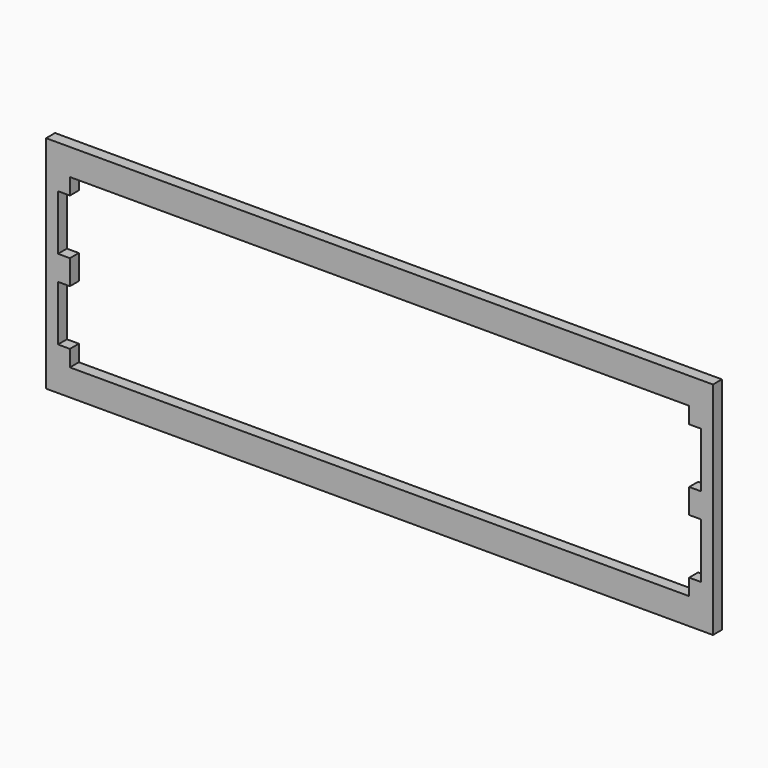
from build123d import *

# Parameters (mm, degrees)
F0_W     = 75.6
F0_H     = 25
F1_DEPTH = 1.27


with BuildPart() as f1:
    # F0 (on Front) → F1 (new body)
    with BuildSketch(Plane.XZ):
        Rectangle(F0_W, F0_H)
        Polygon((35.1, -7.65), (35.1, -9.5), (-35.1, -9.5), (-35.1, -7.65), (-36.45, -7.65), (-36.45, -1.4), (-35.1, -1.4), (-35.1, 1.4), (-36.45, 1.4), (-36.45, 7.65), (-35.1, 7.65), (-35.1, 9.5), (35.1, 9.5), (35.1, 7.65), (36.45, 7.65), (36.45, 1.4), (35.1, 1.4), (35.1, -1.4), (36.45, -1.4), (36.45, -7.65), align=None, mode=Mode.SUBTRACT)
    extrude(amount=F1_DEPTH)


solid = f1.part
